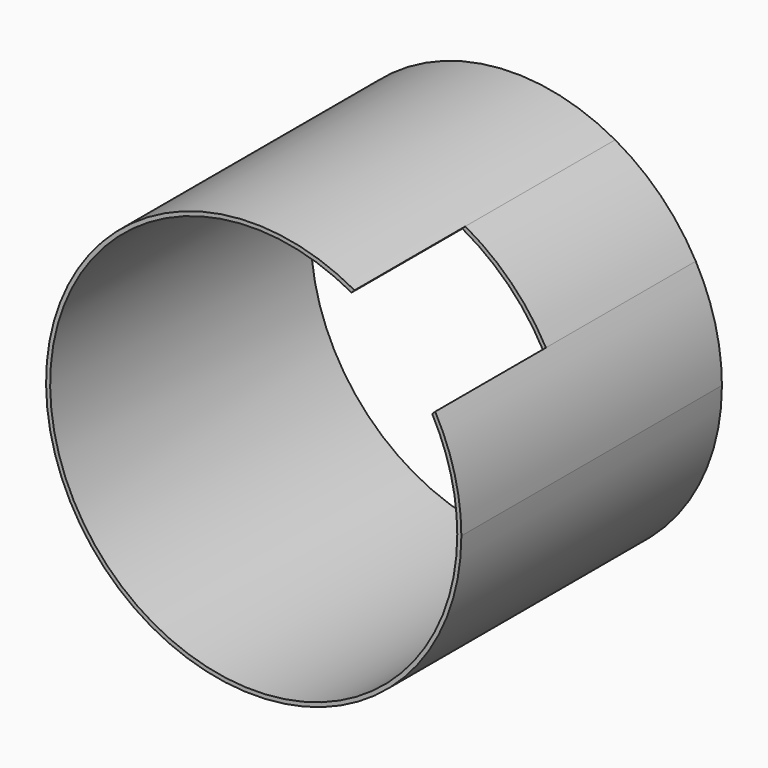
from build123d import *

# Parameters (mm, degrees)
F1_DEPTH = 40
F2_DEPTH = 40
F3_DEPTH = 17


with BuildPart() as f1:
    # F0 (on Front) → F1 (new body)
    with BuildSketch(Plane.XZ):
        with BuildLine():
            ThreePointArc((21.92031, 12.020815), (24.217842, 6.204524), (25, 0))
            ThreePointArc((25, 0), (-21.511862, -12.737339), (12.020815, 21.92031))
            Line((12.020815, 21.92031), (12.388793, 22.288288))
            ThreePointArc((12.388793, 22.288288), (-21.979129, -12.929342), (25.5, 0))
            ThreePointArc((25.5, 0), (24.684017, 6.399166), (22.288288, 12.388793))
            Line((22.288288, 12.388793), (21.92031, 12.020815))
        make_face()
    extrude(amount=-F1_DEPTH)

    # F0 (on Front) → F2 (join)
    with BuildSketch(Plane.XZ):
        with BuildLine():
            ThreePointArc((12.020815, 21.92031), (17.67767, 17.67767), (21.92031, 12.020815))
            Line((21.92031, 12.020815), (22.288288, 12.388793))
            ThreePointArc((22.288288, 12.388793), (18.031223, 18.031223), (12.388793, 22.288288))
            Line((12.388793, 22.288288), (12.020815, 21.92031))
        make_face()
    extrude(amount=-F2_DEPTH)

    # F0 (on Front) → F3 (cut)
    with BuildSketch(Plane.XZ):
        with BuildLine():
            ThreePointArc((12.020815, 21.92031), (17.67767, 17.67767), (21.92031, 12.020815))
            Line((21.92031, 12.020815), (22.288288, 12.388793))
            ThreePointArc((22.288288, 12.388793), (18.031223, 18.031223), (12.388793, 22.288288))
            Line((12.388793, 22.288288), (12.020815, 21.92031))
        make_face()
    extrude(amount=-F3_DEPTH, mode=Mode.SUBTRACT)


solid = f1.part
